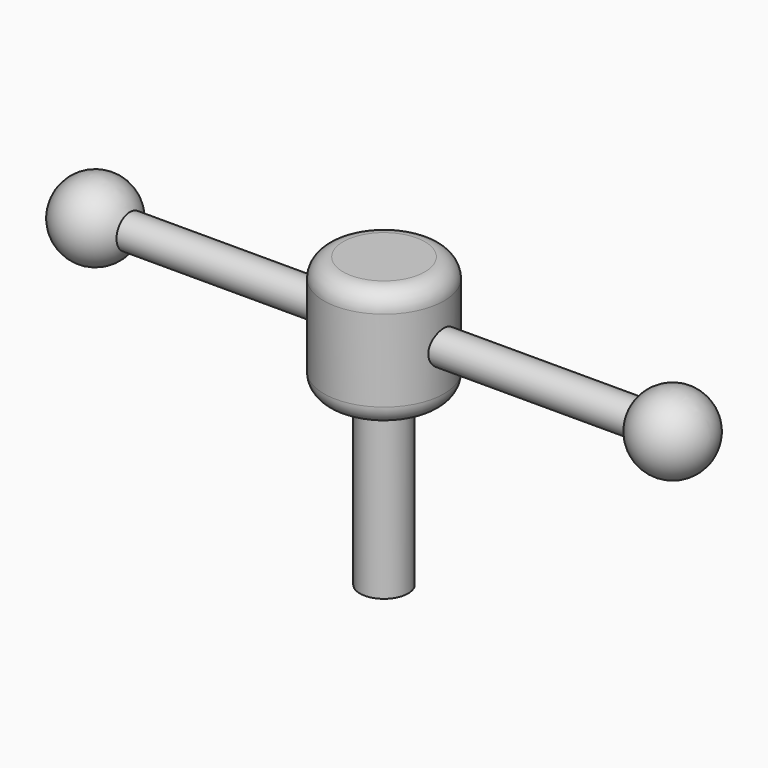
from build123d import *

# Parameters (mm, degrees)
F0_R     = 15.875
F1_DEPTH = 31.75
F2_R     = 6.35
F3_DEPTH = 44.45
F4_R     = 4.445
F5_DEPTH = 76.2
F10_R    = 5.08


with BuildPart() as f1:
    # F0 (on Top) → F1 (new body)
    with BuildSketch(Plane.XY):
        Circle(F0_R)
    extrude(amount=F1_DEPTH)

    # F2 (on face) → F3 (join)
    with BuildSketch(Plane(origin=(0, 0, 0), x_dir=(1, 0, 0), z_dir=(0, 0, -1))):
        Circle(F2_R)
    extrude(amount=F3_DEPTH)

    # F4 (on Right) → F5 (join, symmetric)
    with BuildSketch(Plane.YZ):
        with Locations((0, 15.926162)):
            Circle(F4_R)
    extrude(amount=F5_DEPTH, both=True)

    # F6 (on Front) → F7 (revolve)
    with BuildSketch(Plane.XZ):
        with BuildLine():
            Line((-76.2, 15.926162), (-76.2, 20.371162))
            Line((-76.2, 20.371162), (-67.063941, 20.371162))
            ThreePointArc((-67.063941, 20.371162), (-78.480706, 25.826868), (-86.36, 15.926162))
            Line((-86.36, 15.926162), (-76.2, 15.926162))
        make_face()
    revolve(axis=Axis((-81.28, 0, 15.926162), (-1, 0, 0)))

    # F8 (on Front) → F9 (revolve)
    with BuildSketch(Plane.XZ):
        with BuildLine():
            ThreePointArc((86.36, 15.926162), (78.480706, 25.826868), (67.063941, 20.371162))
            Line((67.063941, 20.371162), (76.2, 20.371162))
            Line((76.2, 20.371162), (76.2, 15.926162))
            Line((76.2, 15.926162), (86.36, 15.926162))
        make_face()
    revolve(axis=Axis((81.28, 0, 15.926162), (1, 0, 0)))

    # F10
    f10_edges = [f1.edges().sort_by_distance(p)[0] for p in [
        (-15.875, 0, 31.75),
        (-15.875, 0, 0),
    ]]
    fillet(f10_edges, radius=F10_R)


solid = f1.part
